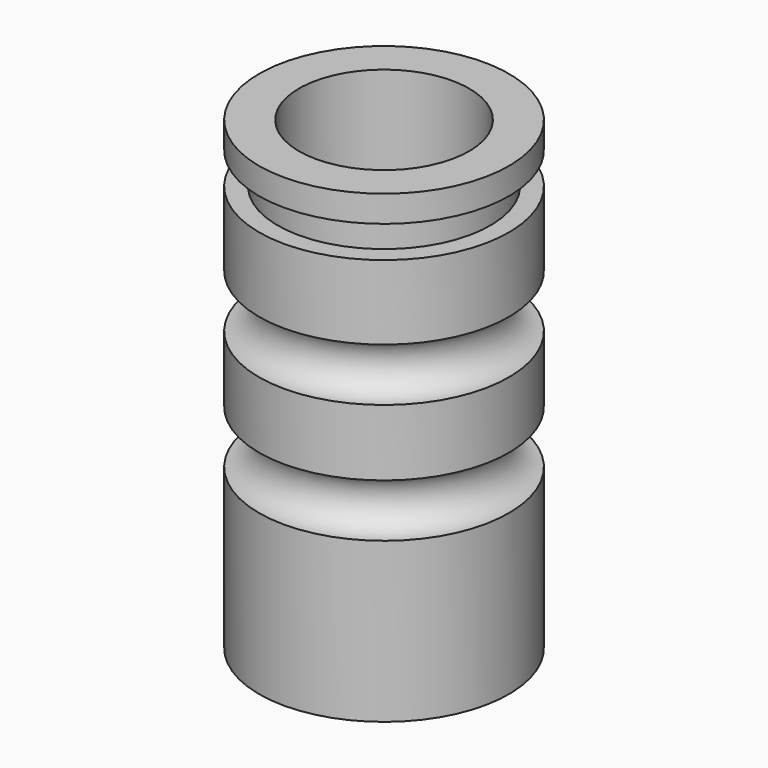
from build123d import *


with BuildPart() as f1:
    # F0 (on Right) → F1 (revolve)
    with BuildSketch(Plane.YZ):
        with BuildLine():
            Line((-6.4, -20), (-6.4, 15))
            Line((-6.4, 15), (-9.4, 15))
            Line((-9.4, 15), (-9.4, 13))
            Line((-9.4, 13), (-8, 13))
            Line((-8, 13), (-8, 10.6))
            Line((-8, 10.6), (-9.4, 10.6))
            Line((-9.4, 10.6), (-9.4, 5))
            ThreePointArc((-9.4, 5), (-7.4, 3), (-9.4, 1))
            Line((-9.4, 1), (-9.4, -4))
            ThreePointArc((-9.4, -4), (-7.4, -6), (-9.4, -8))
            Line((-9.4, -8), (-9.4, -20))
            Line((-9.4, -20), (-6.4, -20))
        make_face()
    revolve(axis=Axis((0, 0, -1.812923), (0, 0, 1)))


solid = f1.part
